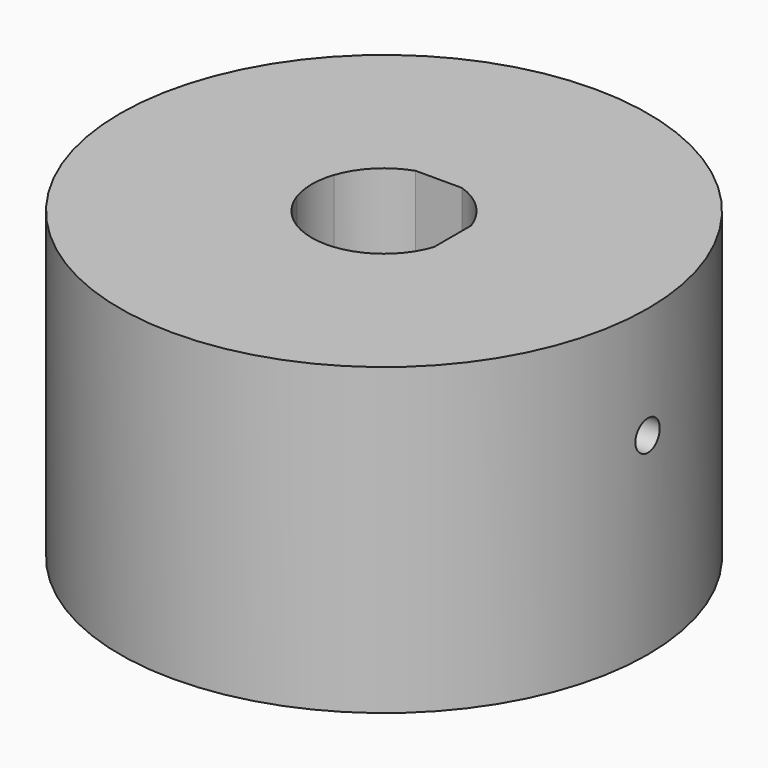
from build123d import *

# Parameters (mm, degrees)
F0_R      = 26
F0_R_2    = 6.25
F1_DEPTH  = 30
F3_DEPTH  = 25
F4_DEPTH  = 22
F5_R      = 1.5
F6_DEPTH  = 25
F7_R      = 1.5
F8_DEPTH  = 25
F9_R      = 6.5
F10_DEPTH = 10


with BuildPart() as f1:
    # F0 (on Top) → F1 (new body)
    with BuildSketch(Plane.XY):
        Circle(F0_R)
        Circle(F0_R_2, mode=Mode.SUBTRACT)
        Circle(F0_R_2)
    extrude(amount=F1_DEPTH)

    # F0 (on Top) → F3 (cut)
    with BuildSketch(Plane.XY):
        Circle(F0_R_2)
    extrude(amount=F3_DEPTH, mode=Mode.SUBTRACT)

    # F2 (on face) → F4 (cut)
    with BuildSketch(Plane.XY.offset(30)):
        with BuildLine():
            Line((6.75, -2.2810359489), (6.75, 2.2810359489))
            ThreePointArc((6.75, 2.2810359489), (5.038135816, 5.038135816), (2.2810359489, 6.75))
            Line((2.2810359489, 6.75), (-2.2810359489, 6.75))
            ThreePointArc((-2.2810359489, 6.75), (-5.038135816, 5.038135816), (-6.75, 2.2810359489))
            Line((-6.75, 2.2810359489), (-6.75, -2.2810359489))
            ThreePointArc((-6.75, -2.2810359489), (-5.038135816, -5.038135816), (-2.2810359489, -6.75))
            Line((-2.2810359489, -6.75), (2.2810359489, -6.75))
            ThreePointArc((2.2810359489, -6.75), (5.038135816, -5.038135816), (6.75, -2.2810359489))
        make_face()
        with BuildLine():
            Line((-6.75, -2.2810359489), (-6.75, 2.2810359489))
            ThreePointArc((-6.75, 2.2810359489), (-7.125, 0), (-6.75, -2.2810359489))
        make_face()
        with BuildLine():
            ThreePointArc((-2.2810359489, -6.75), (0, -7.125), (2.2810359489, -6.75))
            Line((2.2810359489, -6.75), (-2.2810359489, -6.75))
        make_face()
    extrude(amount=-F4_DEPTH, mode=Mode.SUBTRACT)

    # F5 (on face) → F6 (cut)
    with BuildSketch(Plane(origin=(6.75, 0, 0), x_dir=(0, -1, 0), z_dir=(-1, 0, 0))):
        with Locations((0, 19)):
            Circle(F5_R)
    extrude(amount=-F6_DEPTH, mode=Mode.SUBTRACT)

    # F7 (on face) → F8 (cut)
    with BuildSketch(Plane.XZ.offset(-6.75)):
        with Locations((0, 19)):
            Circle(F7_R)
    extrude(amount=-F8_DEPTH, mode=Mode.SUBTRACT)

    # F9 (on face) → F10 (cut)
    with BuildSketch(Plane.XY):
        with Locations((-7.8439684669, 16.2009925218)):
            Circle(F9_R)
        with Locations((10.1084868569, 14.8935722197)):
            Circle(F9_R)
        with Locations((17.9524553238, -1.3074203021)):
            Circle(F9_R)
        with Locations((7.8439684669, -16.2009925218)):
            Circle(F9_R)
        with Locations((-10.1084868569, -14.8935722197)):
            Circle(F9_R)
        with Locations((-17.9524553238, 1.3074203021)):
            Circle(F9_R)
    extrude(amount=F10_DEPTH, mode=Mode.SUBTRACT)


solid = f1.part
